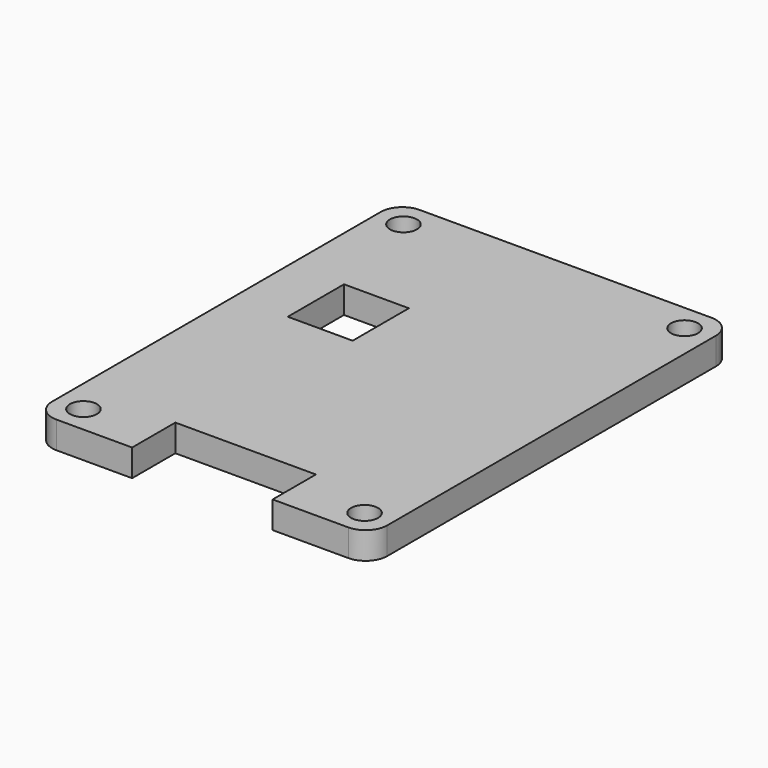
from build123d import *

# Parameters (mm, degrees)
F0_R     = 1.25
F1_DEPTH = 2.5
F2_R     = 2


with BuildPart() as f1:
    # F0 (on Top) → F1 (new body)
    with BuildSketch(Plane.XY):
        Polygon((10.5, 16), (10.5, -16), (6.5, -16), (6.5, -21), (15.5, -21), (15.5, 21), (-15.5, 21), (-15.5, -21), (-6.5, -21), (-6.5, -16), (-10.5, -16), (-10.5, 2), (-10.5, 8.5), (-10.5, 16), align=None)
        with Locations((-13, -18.5)):
            Circle(F0_R, mode=Mode.SUBTRACT)
        with Locations((13, -18.5)):
            Circle(F0_R, mode=Mode.SUBTRACT)
        with Locations((-13, 18.5)):
            Circle(F0_R, mode=Mode.SUBTRACT)
        with Locations((13, 18.5)):
            Circle(F0_R, mode=Mode.SUBTRACT)
        Polygon((6.5, -16), (10.5, -16), (10.5, 16), (-10.5, 16), (-10.5, 8.5), (-4.5, 8.5), (-4.5, 2), (-10.5, 2), (-10.5, -16), (-6.5, -16), align=None)
    extrude(amount=F1_DEPTH)

    # F2
    f2_edges = [f1.edges().sort_by_distance(p)[0] for p in [
        (-15.5, 21, 1.25),
        (15.5, 21, 1.25),
        (15.5, -21, 1.25),
        (-15.5, -21, 1.25),
    ]]
    fillet(f2_edges, radius=F2_R)


solid = f1.part
